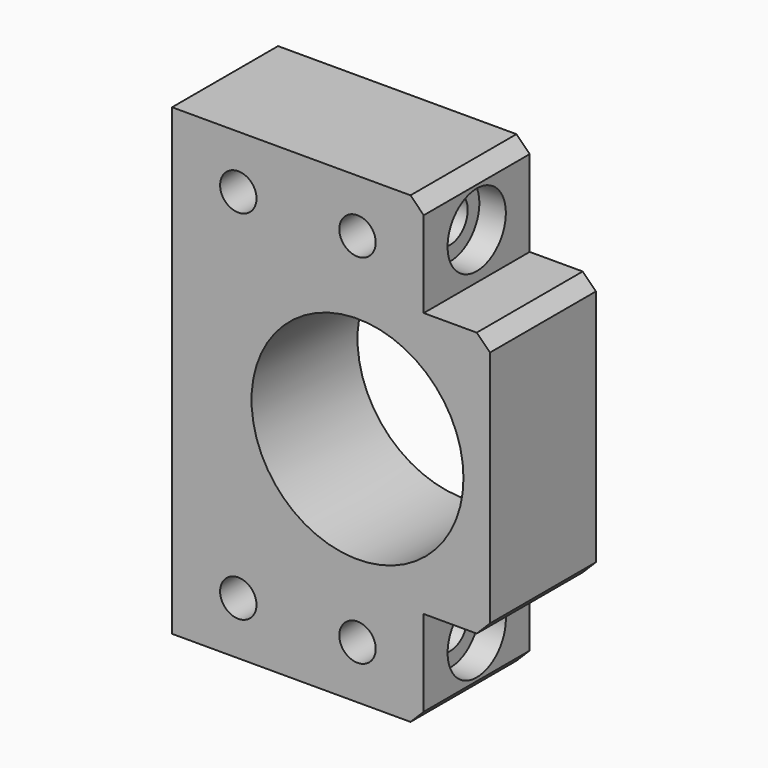
from build123d import *

# Parameters (mm, degrees)
F0_R     = 2.75
F0_R_2   = 16
F1_DEPTH = 20
F2_R     = 3.3
F3_DEPTH = 38
F4_R     = 5.5
F5_DEPTH = 4
F6_SIZE  = 2


with BuildPart() as f1:
    # F0 (on Front) → F1 (new body)
    with BuildSketch(Plane.XZ):
        Polygon((0, 70), (0, 0), (38, 0), (38, 15), (48, 15), (48, 55), (38, 55), (38, 70), align=None)
        with Locations((10, 8)):
            Circle(F0_R, mode=Mode.SUBTRACT)
        with Locations((28, 8)):
            Circle(F0_R, mode=Mode.SUBTRACT)
        with Locations((10, 62)):
            Circle(F0_R, mode=Mode.SUBTRACT)
        with Locations((28, 35)):
            Circle(F0_R_2, mode=Mode.SUBTRACT)
        with Locations((28, 62)):
            Circle(F0_R, mode=Mode.SUBTRACT)
    extrude(amount=F1_DEPTH)

    # F2 (on face) → F3 (cut)
    with BuildSketch(Plane.YZ.offset(38)):
        with Locations((-10, 62)):
            Circle(F2_R)
        with Locations((-10, 8)):
            Circle(F2_R)
    extrude(amount=-F3_DEPTH, mode=Mode.SUBTRACT)

    # F4 (on face) → F5 (cut)
    with BuildSketch(Plane.YZ.offset(38)):
        with Locations((-10, 62)):
            Circle(F4_R)
        with Locations((-10, 8)):
            Circle(F4_R)
    extrude(amount=-F5_DEPTH, mode=Mode.SUBTRACT)

    # F6
    f6_edges = [f1.edges().sort_by_distance(p)[0] for p in [
        (38, -10, 70),
        (48, -10, 55),
        (38, -10, 0),
        (48, -10, 15),
    ]]
    chamfer(f6_edges, length=F6_SIZE)


solid = f1.part
